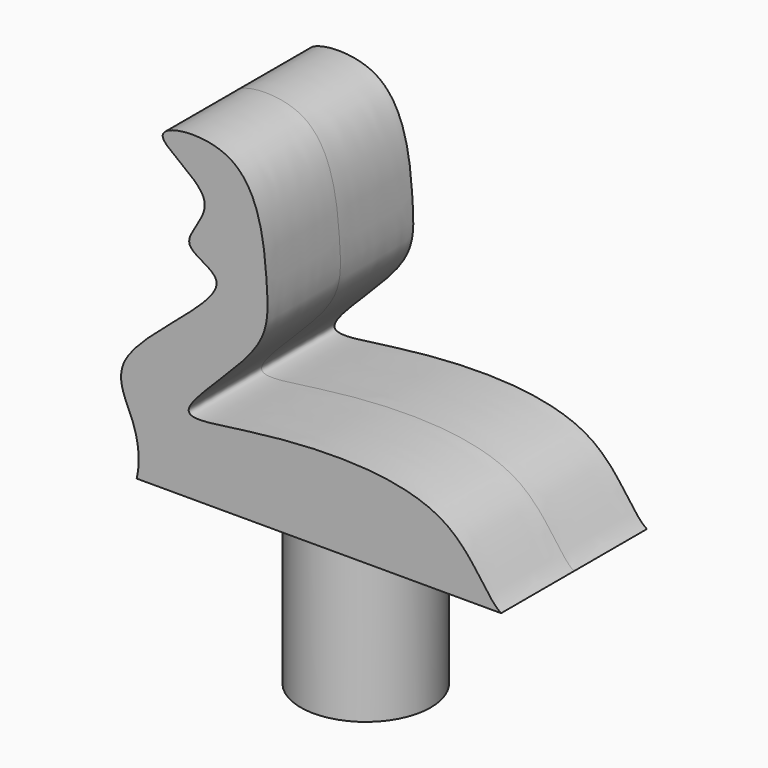
from build123d import *

# Parameters (mm, degrees)
F1_DEPTH = 1.75
F2_R     = 1.25
F3_DEPTH = 3.2


with BuildPart() as f1:
    # F0 (on Front) → F1 (new body, symmetric)
    with BuildSketch(Plane.XZ):
        with BuildLine():
            add(Edge.make_bspline(
                [(7, 0), (6.690198974, 0.204683943), (6.114532001, 1.7993332709), (2.431130198, 1.6046883761), (0.3380404041, 1.170409304), (2.5445093221, 2.9295329434), (2.5221009958, 3.9802694633), (2.3182839336, 6.4015037026), (-0.2607450895, 6.0742061816), (1.8466480698, 5.2034723445), (0.583376323, 4.2077463089), (2.3377841513, 3.8726868762), (-0.7299504338, 2.0485809473), (-0.0286293595, 1.0203269913), (0.0847443614, 0.3592877387), (0, 0)],
                knots=[0, 0, 0, 0, 0.0812188653, 0.2036083368, 0.2724262945, 0.3592053766, 0.4293147467, 0.5201745922, 0.5919570173, 0.6602643573, 0.7195346541, 0.7727345011, 0.8738635197, 0.9362506624, 1, 1, 1, 1], degree=3))
            Line((0, 0), (7, 0))
        make_face()
    extrude(amount=F1_DEPTH, both=True)

    # F2 (on Top) → F3 (join)
    with BuildSketch(Plane.XY):
        with Locations((3, 0)):
            Circle(F2_R)
    extrude(amount=-F3_DEPTH)


solid = f1.part
